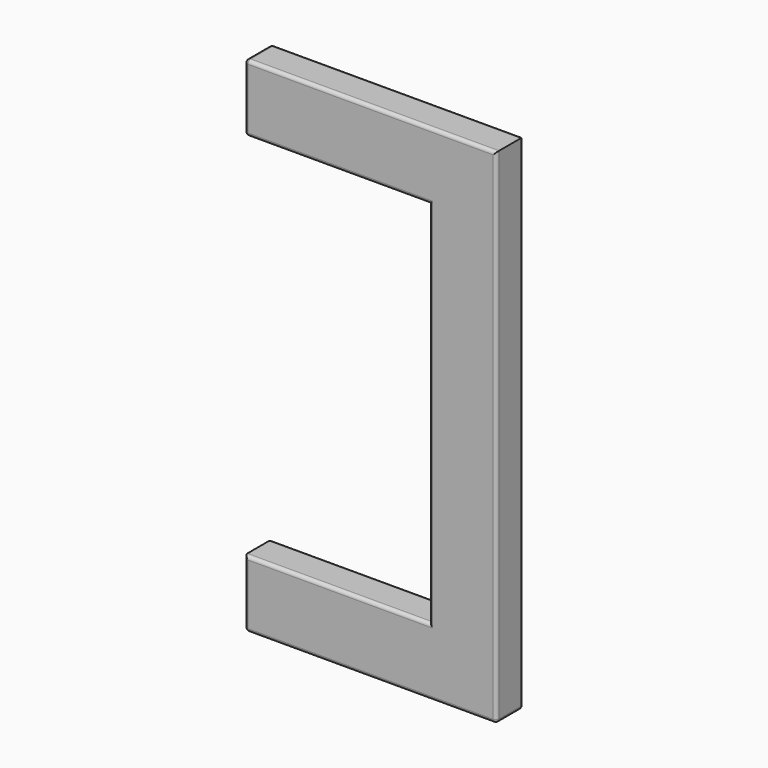
from build123d import *

# Parameters (mm, degrees)
F0_W     = 40
F0_H     = 20
F1_DEPTH = 300
F2_W     = 110
F2_H     = 40
F2_W_2   = 40
F3_DEPTH = 20
F4_R     = 2


with BuildPart() as f1:
    # F0 (on Top) → F1 (new body)
    with BuildSketch(Plane.XY):
        with Locations((-28.588508, 29.951763)):
            Rectangle(F0_W, F0_H)
    extrude(amount=F1_DEPTH)

    # F2 (on face) → F3 (join)
    with BuildSketch(Plane(origin=(0, 39.951763, 0), x_dir=(-1, 0, 0), z_dir=(0, 1, 0))):
        with Locations((103.588508, 280)):
            Rectangle(F2_W, F2_H)
        with Locations((28.588508, 280)):
            Rectangle(F2_W_2, F2_H)
        with Locations((28.588508, 20)):
            Rectangle(F2_W_2, F2_H)
        with Locations((103.588508, 20)):
            Rectangle(F2_W, F2_H)
    extrude(amount=-F3_DEPTH)

    # F4
    f4_edges = [f1.edges().sort_by_distance(p)[0] for p in [
        (-103.588508, 19.951763, 260),
        (-48.588508, 19.951763, 150),
        (-8.588508, 19.951763, 150),
        (-83.588508, 19.951763, 300),
        (-158.588508, 19.951763, 280),
        (-158.588508, 39.951763, 280),
        (-158.588508, 29.951763, 260),
        (-158.588508, 29.951763, 300),
        (-83.588508, 39.951763, 300),
        (-103.588508, 39.951763, 260),
        (-48.588508, 39.951763, 150),
        (-8.588508, 39.951763, 150),
        (-8.588508, 29.951763, 0),
        (-83.588508, 39.951763, 0),
        (-83.588508, 19.951763, 0),
        (-158.588508, 29.951763, 0),
        (-158.588508, 39.951763, 20),
        (-158.588508, 19.951763, 20),
        (-103.588508, 19.951763, 40),
        (-103.588508, 39.951763, 40),
    ]]
    fillet(f4_edges, radius=F4_R)


solid = f1.part
